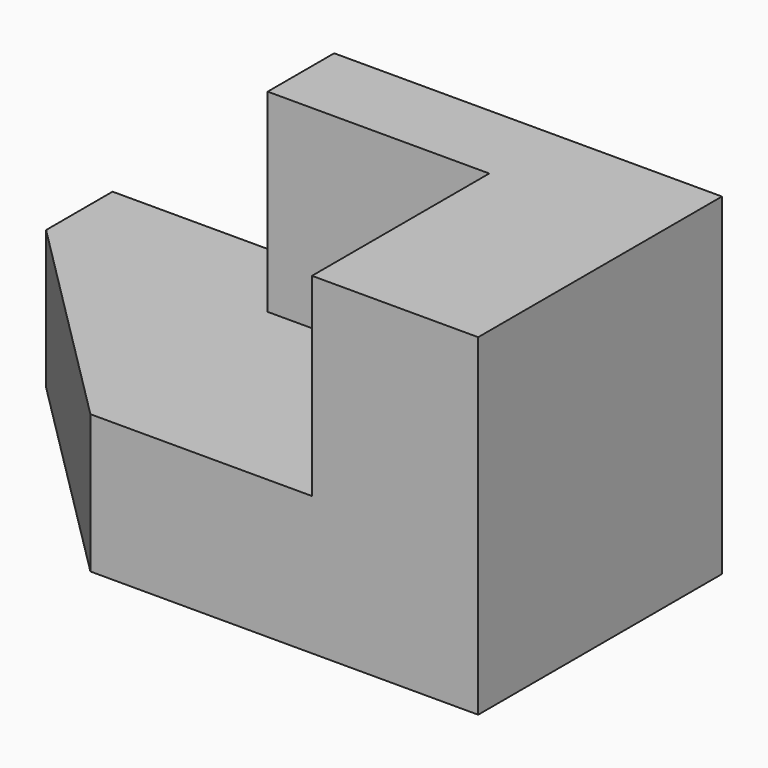
from build123d import *

# Parameters (mm, degrees)
F1_DEPTH = 55
F0_W     = 40
F0_H     = 35
F2_DEPTH = 15
F3_SIZE  = 40


with BuildPart() as f1:
    # F0 (on Front) → F1 (new body)
    with BuildSketch(Plane.XZ):
        Polygon((-49.050132, 25), (-49.050132, 0), (-9.050132, 0), (60.949868, 0), (60.949868, 60), (30.949868, 60), (30.949868, 25), (-9.050132, 25), align=None)
    extrude(amount=F1_DEPTH)

    # F0 (on Front) → F2 (join)
    with BuildSketch(Plane.XZ):
        Polygon((-49.050132, 25), (-49.050132, 0), (-9.050132, 0), (60.949868, 0), (60.949868, 60), (30.949868, 60), (30.949868, 25), (-9.050132, 25), align=None)
        with Locations((10.949868, 42.5)):
            Rectangle(F0_W, F0_H)
    extrude(amount=F2_DEPTH)

    # F3
    f3_edges = [f1.edges().sort_by_distance(p)[0] for p in [
        (-49.050132, -55, 12.5),
    ]]
    chamfer(f3_edges, length=F3_SIZE)


solid = f1.part
